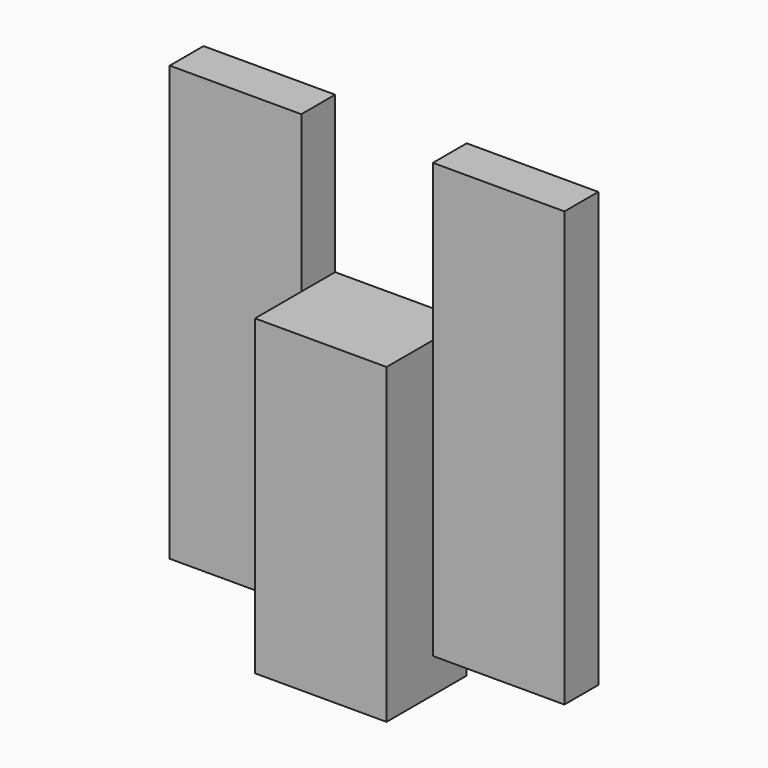
from build123d import *

# Parameters (mm, degrees)
F1_DEPTH = 8.161886
F2_W     = 25.4
F2_H     = 60.325
F3_DEPTH = 19.334681


with BuildPart() as f1:
    # F0 (on Front) → F1 (new body)
    with BuildSketch(Plane.XZ):
        Polygon((-25.4, 60.325), (-50.8, 60.325), (-50.8, -23.495), (25.4, -23.495), (25.4, 60.325), (0, 60.325), (0, 0), (-25.4, 0), align=None)
    extrude(amount=F1_DEPTH)

    # F2 (on Front) → F3 (join)
    with BuildSketch(Plane.XZ):
        with Locations((-12.7, 0)):
            Rectangle(F2_W, F2_H)
    extrude(amount=F3_DEPTH)


solid = f1.part
